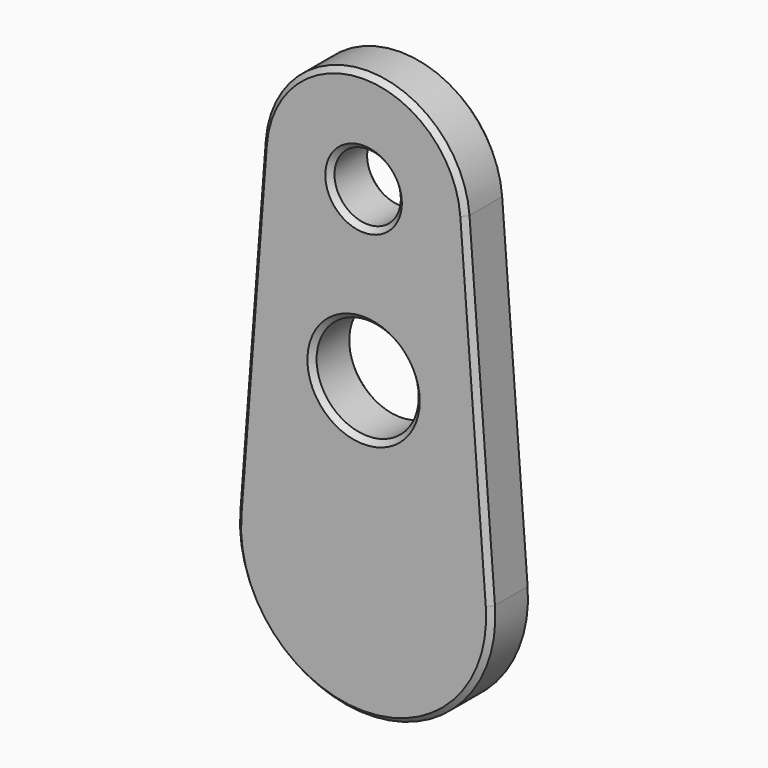
from build123d import *

# Parameters (mm, degrees)
F0_R     = 10
F0_R_2   = 6.5
F1_DEPTH = 5
F2_SIZE2 = 1
F2_SIZE  = 1
F3_SIZE2 = 1
F3_SIZE  = 1


with BuildPart() as f1:
    # F0 (on Front) → F1 (new body, symmetric)
    with BuildSketch(Plane.XZ):
        with BuildLine():
            Line((-19.942525, 1.515152), (-24.928157, -64.106061))
            ThreePointArc((-24.928157, -64.106061), (0, -91), (24.928157, -64.106061))
            Line((24.928157, -64.106061), (19.942525, 1.515152))
            ThreePointArc((19.942525, 1.515152), (0, 20), (-19.942525, 1.515152))
        make_face()
        with Locations((0, -33)):
            Circle(F0_R, mode=Mode.SUBTRACT)
        Circle(F0_R_2, mode=Mode.SUBTRACT)
    extrude(amount=F1_DEPTH, both=True)

    # F2
    f2_edges = [f1.edges().sort_by_distance(p)[0] for p in [
        (0, -5, 20),
        (-22.435341, -5, -31.295455),
        (0, -5, -91),
        (22.435341, -5, -31.295455),
        (-10, -5, -33),
        (-6.5, -5, 0),
    ]]
    chamfer(f2_edges, length=F2_SIZE, length2=F2_SIZE2)

    # F3
    f3_edges = [f1.edges().sort_by_distance(p)[0] for p in [
        (0, 5, 20),
        (-22.435341, 5, -31.295455),
        (0, 5, -91),
        (22.435341, 5, -31.295455),
        (-10, 5, -33),
        (-6.5, 5, 0),
    ]]
    chamfer(f3_edges, length=F3_SIZE, length2=F3_SIZE2)


solid = f1.part
